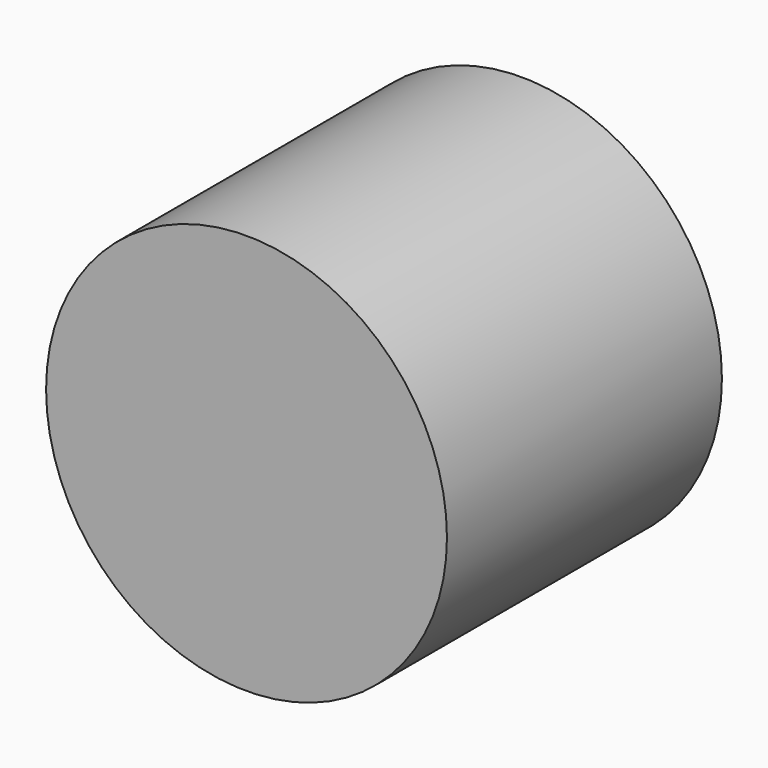
from build123d import *

# Parameters (mm, degrees)
F0_R     = 82.55
F1_DEPTH = 50.8
F2_R     = 82.55
F2_R_2   = 29.625302
F3_DEPTH = 76.2


with BuildPart() as f1:
    # F0 (on Front) → F1 (new body)
    with BuildSketch(Plane.XZ):
        Circle(F0_R)
    extrude(amount=F1_DEPTH)

    # F2 (on face) → F3 (cut)
    with BuildSketch(Plane.XZ.offset(50.8)):
        Circle(F2_R)
        with Locations((-20.786475, 31.374596)):
            Circle(F2_R_2, mode=Mode.SUBTRACT)
    extrude(amount=-F3_DEPTH, mode=Mode.SUBTRACT)


solid = f1.part
